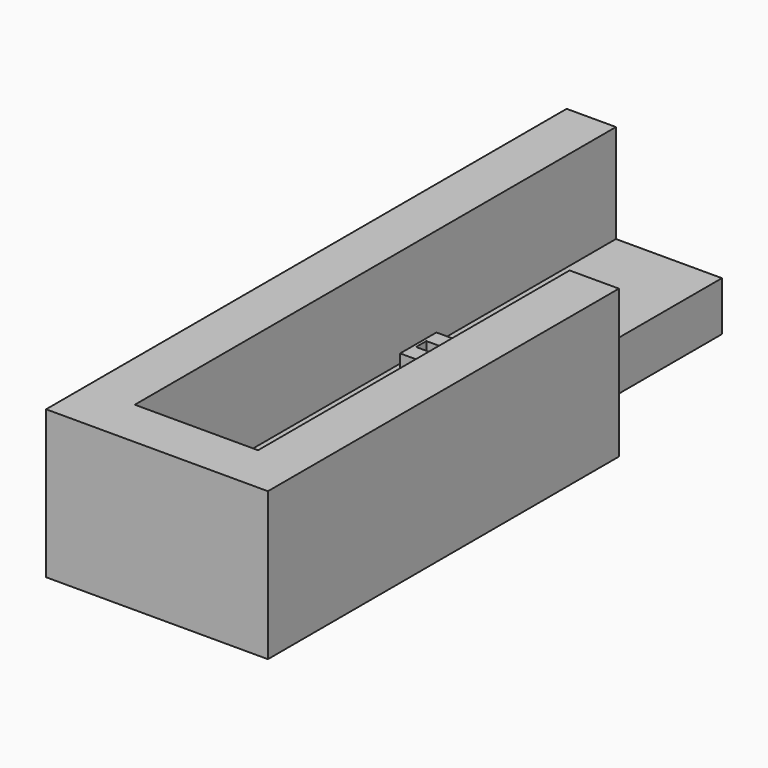
from build123d import *

# Parameters (mm, degrees)
SKETCH_W        = 22.5
SKETCH_H        = 66
PAD_DEPTH       = 15
SKETCH001_W     = 12.5
SKETCH001_H     = 75
SKETCH001_W_2   = 4.6
SKETCH001_H_2   = 4.6
POCKET_DEPTH    = 10
SKETCH002_W     = 7
SKETCH002_H     = 7
POCKET001_DEPTH = 5.8
SKETCH004_W     = 1.1
SKETCH004_H     = 4
POCKET002_DEPTH = 10
SKETCH005_W     = 4
SKETCH005_H     = 1.3
POCKET003_DEPTH = 10
SKETCH007_W     = 19.75
SKETCH007_H     = 26.5
POCKET004_DEPTH = 20


with BuildPart() as part:
    # Sketch → Pad (new body)
    with BuildSketch(Plane.XY):
        with Locations((51.75, -67)):
            Rectangle(SKETCH_W, SKETCH_H)
    extrude(amount=PAD_DEPTH)

    # Sketch001 (on DatumPlane) → Pocket (cut)
    with BuildSketch(Plane.XY.offset(15)):
        with Locations((51.75, -57.5)):
            Rectangle(SKETCH001_W, SKETCH001_H)
        with Locations((51.75, -64)):
            Rectangle(SKETCH001_W_2, SKETCH001_H_2, mode=Mode.SUBTRACT)
    extrude(amount=-POCKET_DEPTH, mode=Mode.SUBTRACT)

    # Sketch002 (on DatumPlane) → Pocket001 (cut)
    with BuildSketch(Plane.XY.offset(15)):
        with Locations((51.5, -63.5)):
            Rectangle(SKETCH002_W, SKETCH002_H)
    extrude(amount=-POCKET001_DEPTH, mode=Mode.SUBTRACT)

    # Sketch004 (on DatumPlane) → Pocket002 (cut)
    with BuildSketch(Plane.XY.offset(15)):
        with Locations((51.75, -64)):
            Rectangle(SKETCH004_W, SKETCH004_H)
    extrude(amount=-POCKET002_DEPTH, mode=Mode.SUBTRACT)

    # Sketch005 (on DatumPlane) → Pocket003 (cut)
    with BuildSketch(Plane.XY.offset(15)):
        with Locations((51.75, -64)):
            Rectangle(SKETCH005_W, SKETCH005_H)
    extrude(amount=-POCKET003_DEPTH, mode=Mode.SUBTRACT)

    # Sketch007 (on DatumPlane) → Pocket004 (cut)
    with BuildSketch(Plane.XY.offset(15)):
        with Locations((66.125, -42.25)):
            Rectangle(SKETCH007_W, SKETCH007_H)
    extrude(amount=-POCKET004_DEPTH, mode=Mode.SUBTRACT)


solid = part.part
